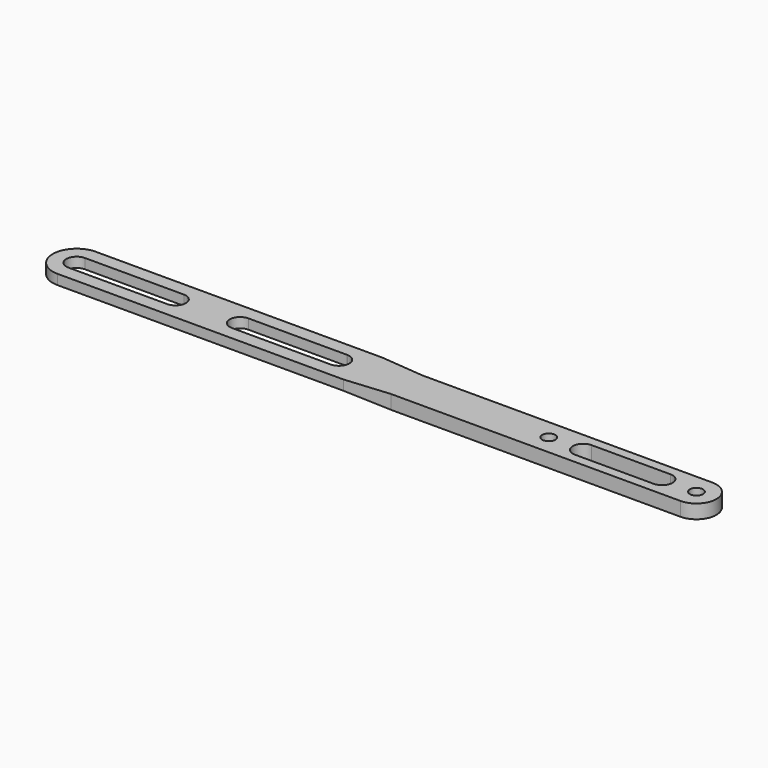
from build123d import *

# Parameters (mm, degrees)
F0_R     = 1.65
F1_DEPTH = 3.5
F3_DEPTH = 6


with BuildPart() as f1:
    # F0 (on Top) → F1 (new body)
    with BuildSketch(Plane.XY):
        with BuildLine():
            Line((0, 6), (-71.800094, 6))
            ThreePointArc((-71.800094, 6), (-77.800094, 0), (-71.800094, -6))
            Line((-71.800094, -6), (0, -6))
            Line((0, -6), (11, -5))
            Line((11, -5), (83.678898, -5))
            ThreePointArc((83.678898, -5), (88.678898, 0), (83.678898, 5))
            Line((83.678898, 5), (11, 4.999999))
            Line((11, 4.999999), (0, 6))
        make_face()
        with Locations((46.678898, -0.051367)):
            Circle(F0_R, mode=Mode.SUBTRACT)
        with BuildLine():
            ThreePointArc((75.078858, 2.6), (77.678898, 1.9e-05), (75.078895, -2.6))
            Line((75.078895, -2.6), (55.290283, -2.599975))
            ThreePointArc((55.290283, -2.599975), (55.278895, -2.6), (55.267506, -2.599975))
            ThreePointArc((55.267506, -2.599975), (52.679025, 0.02565), (55.318805, 2.599694))
            Line((55.318805, 2.599694), (75.078858, 2.6))
        make_face(mode=Mode.SUBTRACT)
        with BuildLine():
            ThreePointArc((-71.800094, -2.6), (-74.400094, 0), (-71.800094, 2.6))
            Line((-71.800094, 2.6), (-47.000807, 2.6))
            ThreePointArc((-47.000807, 2.6), (-44.400807, 0), (-47.000807, -2.6))
            Line((-47.000807, -2.6), (-71.800094, -2.6))
        make_face(mode=Mode.SUBTRACT)
        with BuildLine():
            ThreePointArc((-30.8, -2.6), (-33.4, 0), (-30.8, 2.6))
            Line((-30.8, 2.6), (-6, 2.6))
            ThreePointArc((-6, 2.6), (-5.998491, 2.6), (-5.996982, 2.599998))
            ThreePointArc((-5.996982, 2.599998), (-3.400001, -0.001509), (-6, -2.6))
            Line((-6, -2.6), (-30.8, -2.6))
        make_face(mode=Mode.SUBTRACT)
        with Locations((83.678898, 0)):
            Circle(F0_R, mode=Mode.SUBTRACT)
    extrude(amount=F1_DEPTH)

    # F2 (on Front) → F3 (cut, symmetric)
    with BuildSketch(Plane.XZ):
        Polygon((-80.43514, 1), (-80.43514, 0), (11, 0), (0, 1), align=None)
    extrude(amount=F3_DEPTH, both=True, mode=Mode.SUBTRACT)


solid = f1.part
